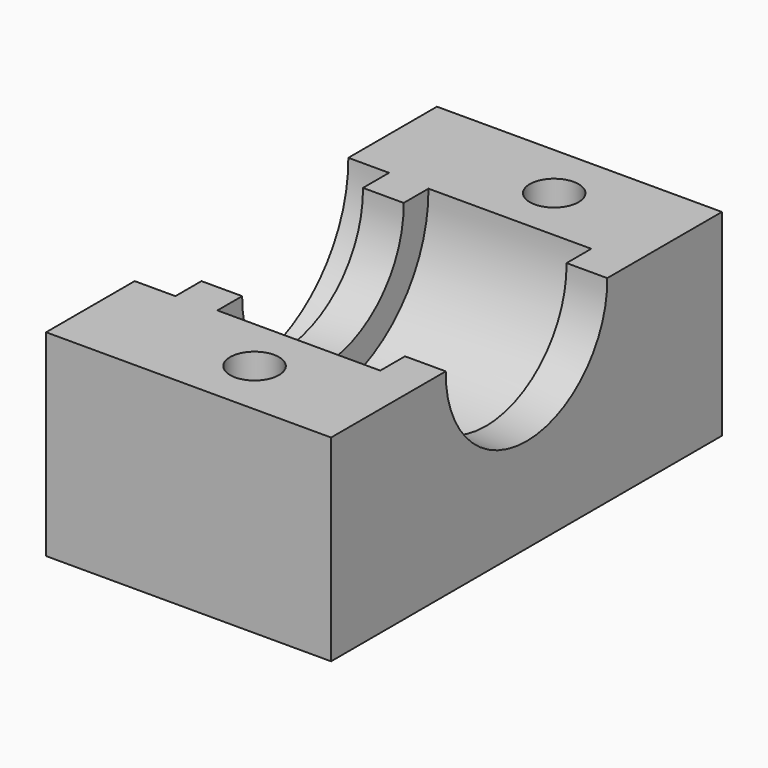
from build123d import *

# Parameters (mm, degrees)
SKETCH002_R     = 8.1
PAD001_DEPTH    = 5
SKETCH_W        = 15
SKETCH_H        = 30
PAD_DEPTH       = 12.1
SKETCH001_R     = 6.2
POCKET_DEPTH    = 15.001
SKETCH003_R     = 1.5
POCKET001_DEPTH = 12.101
POCKET002_DEPTH = 2.5
SKETCH005_W     = 30
SKETCH005_H     = 12.1
PAD002_DEPTH    = 2.5
SKETCH006_R     = 8.2
POCKET003_DEPTH = 2.5


with BuildPart() as pad001:
    # Sketch002 → Pad001 (new body, symmetric)
    with BuildSketch(Plane.YZ):
        with Locations((0, 12)):
            Circle(SKETCH002_R)
    extrude(amount=PAD001_DEPTH, both=True)


with BuildPart() as pocket003:
    # Sketch → Pad (new body)
    with BuildSketch(Plane.XY):
        Rectangle(SKETCH_W, SKETCH_H)
    extrude(amount=PAD_DEPTH)

    # Sketch001 → Pocket (cut, through all)
    with BuildSketch(Plane.YZ.offset(7.5)):
        with Locations((0, 12)):
            Circle(SKETCH001_R)
    extrude(amount=-POCKET_DEPTH, mode=Mode.SUBTRACT)

    # Cut: cut Pad001
    add(pad001.part, mode=Mode.SUBTRACT)

    # Sketch003 → Pocket001 (cut, through all)
    with BuildSketch(Plane(origin=(0, 0, 0), x_dir=(1, 0, 0), z_dir=(0, 0, -1))):
        with Locations((0, 11.5)):
            Circle(SKETCH003_R)
        with Locations((0, -11.5)):
            Circle(SKETCH003_R)
    extrude(amount=-POCKET001_DEPTH, mode=Mode.SUBTRACT)

    # Sketch004 → Pocket002 (cut)
    with BuildSketch(Plane(origin=(0, 0, 0), x_dir=(1, 0, 0), z_dir=(0, 0, -1))):
        Polygon((3.2, 11.5), (1.6, 14.271281), (-1.6, 14.271281), (-3.2, 11.5), (-1.6, 8.728719), (1.6, 8.728719), align=None)
        Polygon((1.6, -14.271281), (3.2, -11.5), (1.6, -8.728719), (-1.6, -8.728719), (-3.2, -11.5), (-1.6, -14.271281), align=None)
    extrude(amount=-POCKET002_DEPTH, mode=Mode.SUBTRACT)

    # Sketch005 → Pad002 (new body)
    with BuildSketch(Plane(origin=(-7.5, 0, 0), x_dir=(0, -1, 0), z_dir=(-1, 0, 0))):
        with Locations((0, 6.05)):
            Rectangle(SKETCH005_W, SKETCH005_H)
    extrude(amount=PAD002_DEPTH)

    # Sketch006 → Pocket003 (cut)
    with BuildSketch(Plane(origin=(-10, 0, 0), x_dir=(0, -1, 0), z_dir=(-1, 0, 0))):
        with Locations((0, 12.016602)):
            Circle(SKETCH006_R)
    extrude(amount=-POCKET003_DEPTH, mode=Mode.SUBTRACT)


solid = pocket003.part
